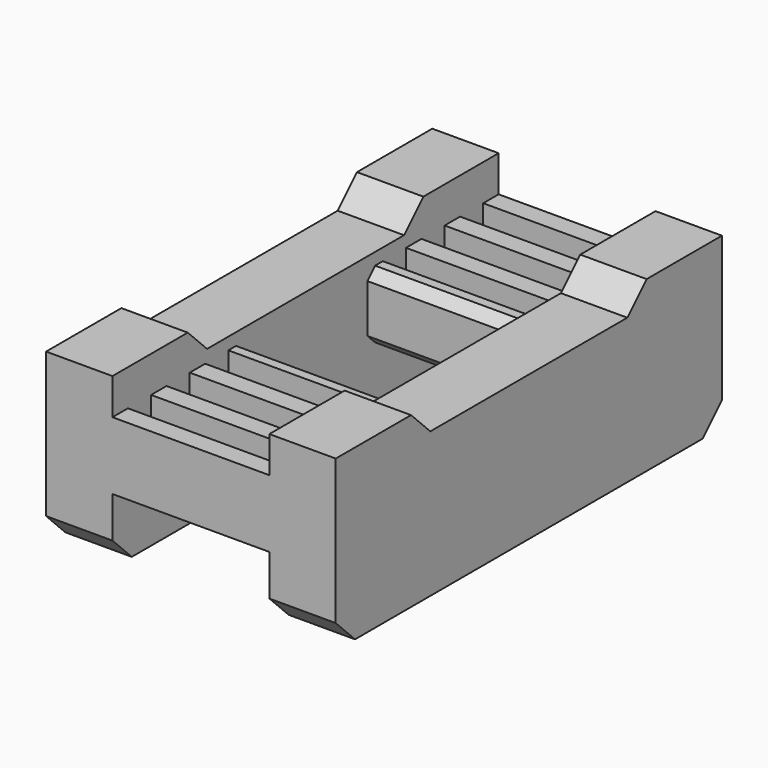
from build123d import *

# Parameters (mm, degrees)
BOX041_W              = 2.75
BOX041_H              = 4.9
BOX041_DEPTH          = 2
BOX042_W              = 2.75
BOX042_H              = 4.9
BOX042_DEPTH          = 2
BOX043_W              = 2.75
BOX043_H              = 4.9
BOX043_DEPTH          = 2
BOX040_W              = 2.75
BOX040_H              = 4.9
BOX040_DEPTH          = 2
CHAMFER004013002_SIZE = 1
BOX039_W              = 6.5
BOX039_H              = 20
BOX039_DEPTH          = 0.5
BOX038_W              = 6.5
BOX038_H              = 20
BOX038_DEPTH          = 0.5
BOX037_W              = 6.5
BOX037_H              = 6.4
BOX037_DEPTH          = 10
BOX019_W              = 6.5
BOX019_H              = 1.2
BOX019_DEPTH          = 1.3
BOX025_W              = 6.5
BOX025_H              = 1.2
BOX025_DEPTH          = 1.3
BOX024_W              = 6.5
BOX024_H              = 1.2
BOX024_DEPTH          = 1.3
BOX026_W              = 6.5
BOX026_H              = 1.2
BOX026_DEPTH          = 1.3
BOX021_W              = 6.5
BOX021_H              = 1.2
BOX021_DEPTH          = 1.3
BOX022_W              = 6.5
BOX022_H              = 1.2
BOX022_DEPTH          = 1.3
BOX020_W              = 6.5
BOX020_H              = 1.2
BOX020_DEPTH          = 1.3
BOX027_W              = 6.5
BOX027_H              = 1.2
BOX027_DEPTH          = 1.3
BOX036_W              = 6.5
BOX036_H              = 20
BOX036_DEPTH          = 2.2
BOX034_W              = 6.5
BOX034_H              = 1.2
BOX034_DEPTH          = 3.5
BOX032_W              = 6.5
BOX032_H              = 1.2
BOX032_DEPTH          = 3.5
BOX031_W              = 6.5
BOX031_H              = 5.2
BOX031_DEPTH          = 3.5
BOX035_W              = 6.5
BOX035_H              = 1.2
BOX035_DEPTH          = 3.5
BOX030_W              = 6.5
BOX030_H              = 1.2
BOX030_DEPTH          = 3.5
BOX029_W              = 6.5
BOX029_H              = 1.2
BOX029_DEPTH          = 3.5
BOX028_W              = 6.5
BOX028_H              = 1.2
BOX028_DEPTH          = 3.5
BOX033_W              = 6.5
BOX033_H              = 1.2
BOX033_DEPTH          = 3.5
BOX023_W              = 12
BOX023_H              = 20
BOX023_DEPTH          = 6
CHAMFER004013005_SIZE = 0.4
CHAMFER004013006_SIZE = 1


with BuildPart() as cube040:
    # Box041 → Box041 (new body)
    with BuildSketch(Plane(origin=(3.25, -10, 5), x_dir=(1, 0, 0), z_dir=(0, 0, 1))):
        with Locations((1.375, 2.45)):
            Rectangle(BOX041_W, BOX041_H)
    extrude(amount=BOX041_DEPTH)


with BuildPart() as cube041:
    # Box042 → Box042 (new body)
    with BuildSketch(Plane(origin=(3.25, 5.1, 5), x_dir=(1, 0, 0), z_dir=(0, 0, 1))):
        with Locations((1.375, 2.45)):
            Rectangle(BOX042_W, BOX042_H)
    extrude(amount=BOX042_DEPTH)


with BuildPart() as cube042:
    # Box043 → Box043 (new body)
    with BuildSketch(Plane(origin=(-6, 5.1, 5), x_dir=(1, 0, 0), z_dir=(0, 0, 1))):
        with Locations((1.375, 2.45)):
            Rectangle(BOX043_W, BOX043_H)
    extrude(amount=BOX043_DEPTH)


with BuildPart() as chamfer004013002:
    # Box040 → Box040 (new body)
    with BuildSketch(Plane(origin=(-6, -10, 5), x_dir=(1, 0, 0), z_dir=(0, 0, 1))):
        with Locations((1.375, 2.45)):
            Rectangle(BOX040_W, BOX040_H)
    extrude(amount=BOX040_DEPTH)

    # Fusion001007005013: union Cube040, Cube041, Cube042
    add(cube040.part)
    add(cube041.part)
    add(cube042.part)

    # Chamfer004013002
    chamfer004013002_edges = [chamfer004013002.edges().sort_by_distance(p)[0] for p in [
        (-4.625, -5.1, 7),
        (4.625, -5.1, 7),
        (4.625, 5.1, 7),
        (-4.625, 5.1, 7),
    ]]
    chamfer(chamfer004013002_edges, length=CHAMFER004013002_SIZE)


with BuildPart() as cube038:
    # Box039 → Box039 (new body)
    with BuildSketch(Plane(origin=(-3.25, -10, 5.5), x_dir=(1, 0, 0), z_dir=(0, 0, 1))):
        with Locations((3.25, 10)):
            Rectangle(BOX039_W, BOX039_H)
    extrude(amount=BOX039_DEPTH)


with BuildPart() as fusion001007005017:
    # Box038 → Box038 (new body)
    with BuildSketch(Plane(origin=(-3.25, -10, 2.2), x_dir=(1, 0, 0), z_dir=(0, 0, 1))):
        with Locations((3.25, 10)):
            Rectangle(BOX038_W, BOX038_H)
    extrude(amount=BOX038_DEPTH)

    # Fusion001007005017: union Cube038
    add(cube038.part)


with BuildPart() as cube036:
    # Box037 → Box037 (new body)
    with BuildSketch(Plane(origin=(-3.25, -3.2, 0), x_dir=(1, 0, 0), z_dir=(0, 0, 1))):
        with Locations((3.25, 3.2)):
            Rectangle(BOX037_W, BOX037_H)
    extrude(amount=BOX037_DEPTH)


with BuildPart() as cube018:
    # Box019 → Box019 (new body)
    with BuildSketch(Plane(origin=(-3.25, 2, 0), x_dir=(1, 0, 0), z_dir=(0, 0, 1))):
        with Locations((3.25, 0.6)):
            Rectangle(BOX019_W, BOX019_H)
    extrude(amount=BOX019_DEPTH)


with BuildPart() as cube024:
    # Box025 → Box025 (new body)
    with BuildSketch(Plane(origin=(-3.25, -5.2, 0), x_dir=(1, 0, 0), z_dir=(0, 0, 1))):
        with Locations((3.25, 0.6)):
            Rectangle(BOX025_W, BOX025_H)
    extrude(amount=BOX025_DEPTH)


with BuildPart() as cube023:
    # Box024 → Box024 (new body)
    with BuildSketch(Plane(origin=(-3.25, -3.2, 0), x_dir=(1, 0, 0), z_dir=(0, 0, 1))):
        with Locations((3.25, 0.6)):
            Rectangle(BOX024_W, BOX024_H)
    extrude(amount=BOX024_DEPTH)


with BuildPart() as cube025:
    # Box026 → Box026 (new body)
    with BuildSketch(Plane(origin=(-3.25, -7.2, 0), x_dir=(1, 0, 0), z_dir=(0, 0, 1))):
        with Locations((3.25, 0.6)):
            Rectangle(BOX026_W, BOX026_H)
    extrude(amount=BOX026_DEPTH)


with BuildPart() as cube020:
    # Box021 → Box021 (new body)
    with BuildSketch(Plane(origin=(-3.25, 6, 0), x_dir=(1, 0, 0), z_dir=(0, 0, 1))):
        with Locations((3.25, 0.6)):
            Rectangle(BOX021_W, BOX021_H)
    extrude(amount=BOX021_DEPTH)


with BuildPart() as cube021:
    # Box022 → Box022 (new body)
    with BuildSketch(Plane(origin=(-3.25, 8, 0), x_dir=(1, 0, 0), z_dir=(0, 0, 1))):
        with Locations((3.25, 0.6)):
            Rectangle(BOX022_W, BOX022_H)
    extrude(amount=BOX022_DEPTH)


with BuildPart() as cube019:
    # Box020 → Box020 (new body)
    with BuildSketch(Plane(origin=(-3.25, 4, 0), x_dir=(1, 0, 0), z_dir=(0, 0, 1))):
        with Locations((3.25, 0.6)):
            Rectangle(BOX020_W, BOX020_H)
    extrude(amount=BOX020_DEPTH)


with BuildPart() as fusion001007005012:
    # Box027 → Box027 (new body)
    with BuildSketch(Plane(origin=(-3.25, -9.2, 0), x_dir=(1, 0, 0), z_dir=(0, 0, 1))):
        with Locations((3.25, 0.6)):
            Rectangle(BOX027_W, BOX027_H)
    extrude(amount=BOX027_DEPTH)

    # Fusion001007005012: union Cube018, Cube024, Cube023, Cube025, Cube020, Cube021, Cube019
    add(cube018.part)
    add(cube024.part)
    add(cube023.part)
    add(cube025.part)
    add(cube020.part)
    add(cube021.part)
    add(cube019.part)


with BuildPart() as fusion001007005012_1:
    # Fusion001007005012 placement: moved
    add(fusion001007005012.part.moved(Location((0, 0, 4.7))))


with BuildPart() as cube035:
    # Box036 → Box036 (new body)
    with BuildSketch(Plane(origin=(-3.25, -10, 0), x_dir=(1, 0, 0), z_dir=(0, 0, 1))):
        with Locations((3.25, 10)):
            Rectangle(BOX036_W, BOX036_H)
    extrude(amount=BOX036_DEPTH)


with BuildPart() as cube033:
    # Box034 → Box034 (new body)
    with BuildSketch(Plane(origin=(-3.25, 4, 0), x_dir=(1, 0, 0), z_dir=(0, 0, 1))):
        with Locations((3.25, 0.6)):
            Rectangle(BOX034_W, BOX034_H)
    extrude(amount=BOX034_DEPTH)


with BuildPart() as cube031:
    # Box032 → Box032 (new body)
    with BuildSketch(Plane(origin=(-3.25, 8, 0), x_dir=(1, 0, 0), z_dir=(0, 0, 1))):
        with Locations((3.25, 0.6)):
            Rectangle(BOX032_W, BOX032_H)
    extrude(amount=BOX032_DEPTH)


with BuildPart() as cube030:
    # Box031 → Box031 (new body)
    with BuildSketch(Plane(origin=(-3.25, -3.2, 0), x_dir=(1, 0, 0), z_dir=(0, 0, 1))):
        with Locations((3.25, 2.6)):
            Rectangle(BOX031_W, BOX031_H)
    extrude(amount=BOX031_DEPTH)


with BuildPart() as cube034:
    # Box035 → Box035 (new body)
    with BuildSketch(Plane(origin=(-3.25, 2, 0), x_dir=(1, 0, 0), z_dir=(0, 0, 1))):
        with Locations((3.25, 0.6)):
            Rectangle(BOX035_W, BOX035_H)
    extrude(amount=BOX035_DEPTH)


with BuildPart() as cube029:
    # Box030 → Box030 (new body)
    with BuildSketch(Plane(origin=(-3.25, -5.2, 0), x_dir=(1, 0, 0), z_dir=(0, 0, 1))):
        with Locations((3.25, 0.6)):
            Rectangle(BOX030_W, BOX030_H)
    extrude(amount=BOX030_DEPTH)


with BuildPart() as cube028:
    # Box029 → Box029 (new body)
    with BuildSketch(Plane(origin=(-3.25, -7.2, 0), x_dir=(1, 0, 0), z_dir=(0, 0, 1))):
        with Locations((3.25, 0.6)):
            Rectangle(BOX029_W, BOX029_H)
    extrude(amount=BOX029_DEPTH)


with BuildPart() as cube027:
    # Box028 → Box028 (new body)
    with BuildSketch(Plane(origin=(-3.25, -9.2, 0), x_dir=(1, 0, 0), z_dir=(0, 0, 1))):
        with Locations((3.25, 0.6)):
            Rectangle(BOX028_W, BOX028_H)
    extrude(amount=BOX028_DEPTH)


with BuildPart() as fusion001007005011:
    # Box033 → Box033 (new body)
    with BuildSketch(Plane(origin=(-3.25, 6, 0), x_dir=(1, 0, 0), z_dir=(0, 0, 1))):
        with Locations((3.25, 0.6)):
            Rectangle(BOX033_W, BOX033_H)
    extrude(amount=BOX033_DEPTH)

    # Fusion001007005011: union Cube033, Cube031, Cube030, Cube034, Cube029, Cube028, Cube027
    add(cube033.part)
    add(cube031.part)
    add(cube030.part)
    add(cube034.part)
    add(cube029.part)
    add(cube028.part)
    add(cube027.part)


with BuildPart() as belt_holder:
    # Box023 → Box023 (new body)
    with BuildSketch(Plane(origin=(-6, -10, 0), x_dir=(1, 0, 0), z_dir=(0, 0, 1))):
        with Locations((6, 10)):
            Rectangle(BOX023_W, BOX023_H)
    extrude(amount=BOX023_DEPTH)

    # Cut018: cut Fusion001007005011
    add(fusion001007005011.part, mode=Mode.SUBTRACT)

    # Cut019: cut Cube035
    add(cube035.part, mode=Mode.SUBTRACT)

    # Cut020: cut Fusion001007005012
    add(fusion001007005012_1.part, mode=Mode.SUBTRACT)

    # Cut029: cut Cube036
    add(cube036.part, mode=Mode.SUBTRACT)

    # Cut030: cut Fusion001007005017
    add(fusion001007005017.part, mode=Mode.SUBTRACT)

    # Fusion001007005018: union Chamfer004013002
    add(chamfer004013002.part)

    # Chamfer004013005
    chamfer004013005_edges = [belt_holder.edges().sort_by_distance(p)[0] for p in [
        (0, 3.2, 5.5),
        (0, -3.2, 5.5),
        (0, 3.2, 2.7),
        (0, -3.2, 2.7),
    ]]
    chamfer(chamfer004013005_edges, length=CHAMFER004013005_SIZE)

    # Chamfer004013006
    chamfer004013006_edges = [belt_holder.edges().sort_by_distance(p)[0] for p in [
        (-4.625, -10, 0),
        (4.625, -10, 0),
        (-4.625, 10, 0),
        (4.625, 10, 0),
    ]]
    chamfer(chamfer004013006_edges, length=CHAMFER004013006_SIZE)


solid = belt_holder.part
